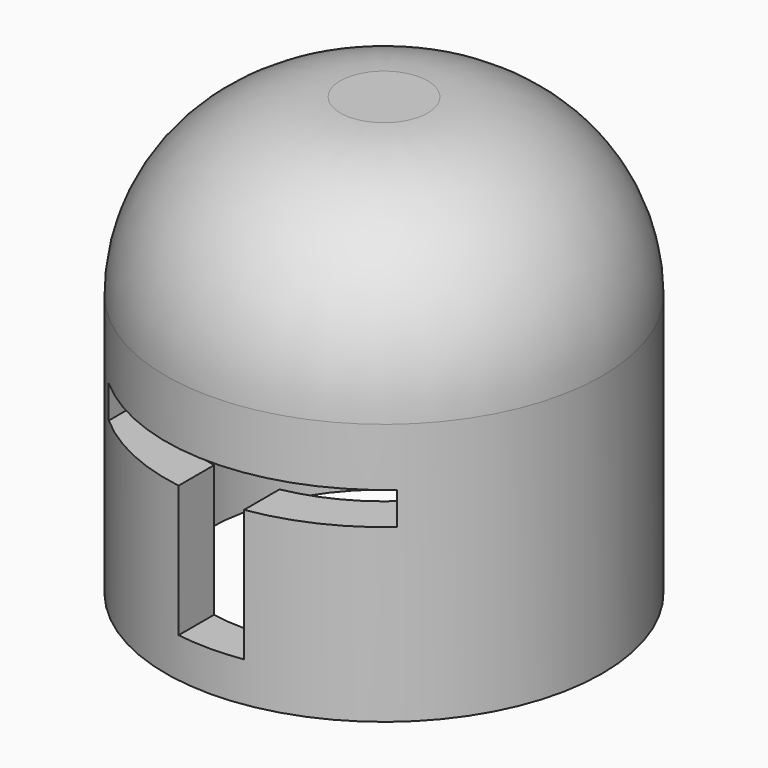
from build123d import *

# Parameters (mm, degrees)
F0_R     = 5
F1_DEPTH = 10
F2_R     = 4
F3_T     = -1
F5_DEPTH = 25


with BuildPart() as f1:
    # F0 (on Top) → F1 (new body)
    with BuildSketch(Plane.XY):
        Circle(F0_R)
    extrude(amount=F1_DEPTH)

    # F2
    f2_edges = [f1.edges().sort_by_distance(p)[0] for p in [
        (-5, 0, 10),
    ]]
    fillet(f2_edges, radius=F2_R)

    # F3
    f3_openings = [f1.faces().sort_by_distance(p)[0] for p in [
        (0, 0, 0),
    ]]
    offset(amount=F3_T, openings=f3_openings)

    # F4 (on Front) → F5 (cut)
    with BuildSketch(Plane.XZ):
        Polygon((3.3, 4.67722), (0, 4.67722), (-3.3, 4.67722), (-3.3, 3.92722), (-0.75, 3.92722), (-0.75, 0.911284), (0.75, 0.911284), (0.75, 3.92722), (3.3, 3.92722), align=None)
    extrude(amount=F5_DEPTH, mode=Mode.SUBTRACT)


solid = f1.part
